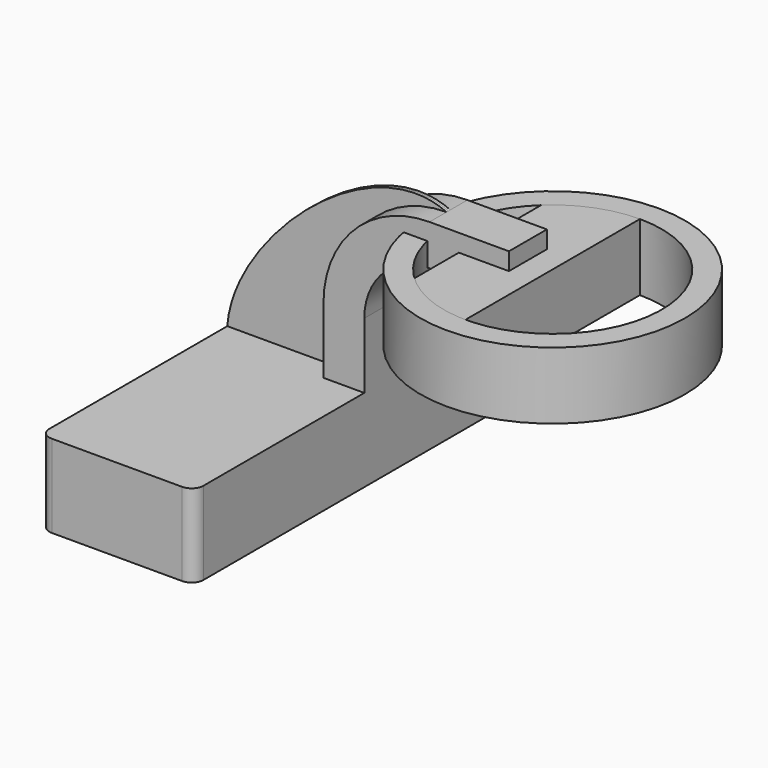
from build123d import *

# Parameters (mm, degrees)
F1_DEPTH  = 126.746
F2_DEPTH  = 12.7
F0_W      = 26.8419216312
F0_H      = 12.4931237255
F3_DEPTH  = 58.42
F4_DEPTH  = 1.27
F3_FACE_W = 40.1330013099
F3_FACE_H = 35.8913054598
F6_R      = 6.35


with BuildPart() as f1:
    # F0 (on Front) → F1 (new body, symmetric)
    with BuildSketch(Plane.XZ):
        Polygon((19.1918514336, 12.5030142994), (-41.4921872737, 12.5030142994), (-41.4921872737, -31.9469857006), (41.0578127263, -31.9469857006), (41.0578127263, 12.5030142994), align=None)
    extrude(amount=F1_DEPTH, both=True)

    # F0 (on Front) → F2 (join, symmetric)
    with BuildSketch(Plane.XZ):
        with BuildLine():
            Line((19.1918514336, 18.5228512547), (19.1918514336, 12.5030142994))
            Line((19.1918514336, 12.5030142994), (41.0578127263, 12.5030142994))
            Line((41.0578127263, 12.5030142994), (41.0578127263, 47.7047476894))
            ThreePointArc((41.0578127263, 47.7047476894), (51.28756735, 72.4015600418), (75.9843797023, 82.6313146655))
            Line((75.9843797023, 82.6313146655), (91.6975517354, 82.6313146655))
            Line((91.6975517354, 82.6313146655), (91.6975517354, 95.124438391))
            Line((91.6975517354, 95.124438391), (118.5394733665, 95.124438391))
            Line((118.5394733665, 95.124438391), (118.5394733665, 104.4972759581))
            Line((118.5394733665, 104.4972759581), (75.9843797023, 104.4972759581))
            ThreePointArc((75.9843797023, 104.4972759581), (35.8259978428, 87.8631295489), (19.1918514336, 47.7047476894))
            Line((19.1918514336, 47.7047476894), (19.1918514336, 18.5228512547))
        make_face()
    extrude(amount=F2_DEPTH, both=True)

    # F0 (on Front) → F3 (join, symmetric)
    with BuildSketch(Plane.XZ):
        Polygon((131.8305530452, 95.124438391), (118.5394733665, 95.124438391), (118.5394733665, 82.6313146655), (91.6975517354, 82.6313146655), (91.6975517354, 59.2331329312), (131.8305530452, 59.2331329312), align=None)
        with Locations((105.118512551, 88.8778765282)):
            Rectangle(F0_W, F0_H)
    extrude(amount=F3_DEPTH, both=True)

    # F0 (on Front) → F4 (join, symmetric)
    with BuildSketch(Plane.XZ):
        with BuildLine():
            add(Edge.make_bspline(
                [(-41.4921872737, 12.5030142994), (-38.218754222, 58.1977139189), (34.3149812373, 123.6376541114), (75.9843797023, 104.4972759581)],
                knots=[0, 0, 0, 0, 149.2102140157, 149.2102140157, 149.2102140157, 149.2102140157], degree=3))
            Line((-41.4921872737, 12.5030142994), (19.1918514336, 12.5030142994))
            Line((19.1918514336, 12.5030142994), (19.1918514336, 18.5228512547))
            Line((19.1918514336, 18.5228512547), (19.1918514336, 47.7047476894))
            ThreePointArc((19.1918514336, 47.7047476894), (35.8259978428, 87.8631295489), (75.9843797023, 104.4972759581))
        make_face()
    extrude(amount=F4_DEPTH, both=True)

    # F6
    f6_edges = [f1.edges().sort_by_distance(p)[0] for p in [
        (41.057813, 126.746, -9.721986),
        (41.057813, -126.746, -9.721986),
        (-41.492187, -126.746, -9.721986),
        (-41.492187, 126.746, -9.721986),
    ]]
    fillet(f6_edges, radius=F6_R)


with BuildPart() as f5:
    # F3_face (on face) → F5 (revolve)
    with BuildSketch(Plane(origin=(111.7640523903, 58.42, 77.1787856611), x_dir=(1, 0, 0), z_dir=(0, 1, 0))):
        Rectangle(F3_FACE_W, F3_FACE_H)
    revolve(axis=Axis((131.8305530452, 0, 77.1787856611), (0, 0, -1)))


solid = Compound([f1.part, f5.part])
